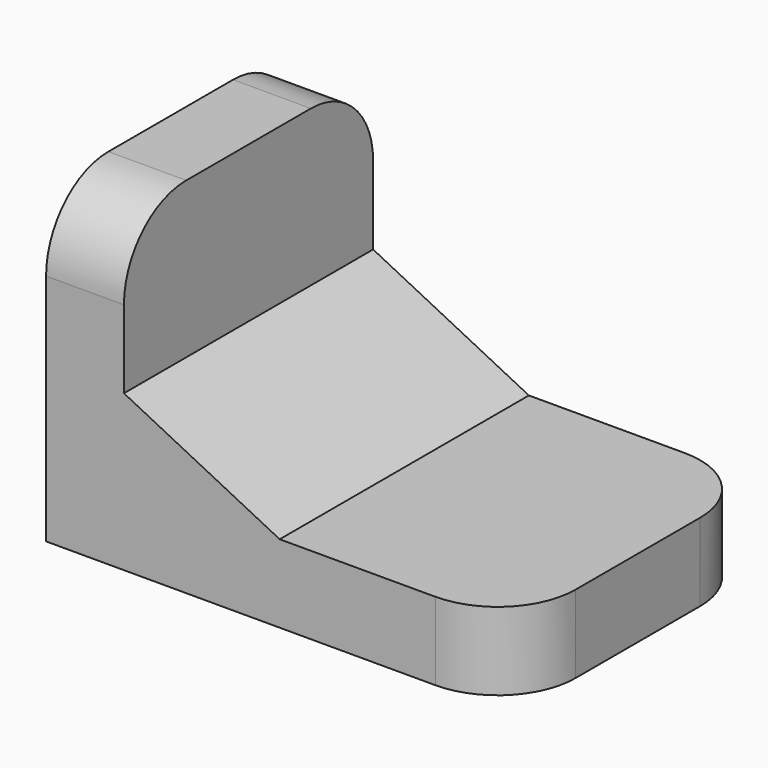
from build123d import *

# Parameters (mm, degrees)
F1_DEPTH = 40
F2_R     = 10


with BuildPart() as f1:
    # F0 (on Front) → F1 (new body)
    with BuildSketch(Plane.XZ):
        Polygon((0, 40), (0, 0), (60, 0), (60, 10), (30, 10), (10, 20), (10, 40), align=None)
    extrude(amount=F1_DEPTH)

    # F2
    f2_edges = [f1.edges().sort_by_distance(p)[0] for p in [
        (60, -40, 5),
        (60, 0, 5),
        (5, -40, 40),
        (5, 0, 40),
    ]]
    fillet(f2_edges, radius=F2_R)


solid = f1.part
